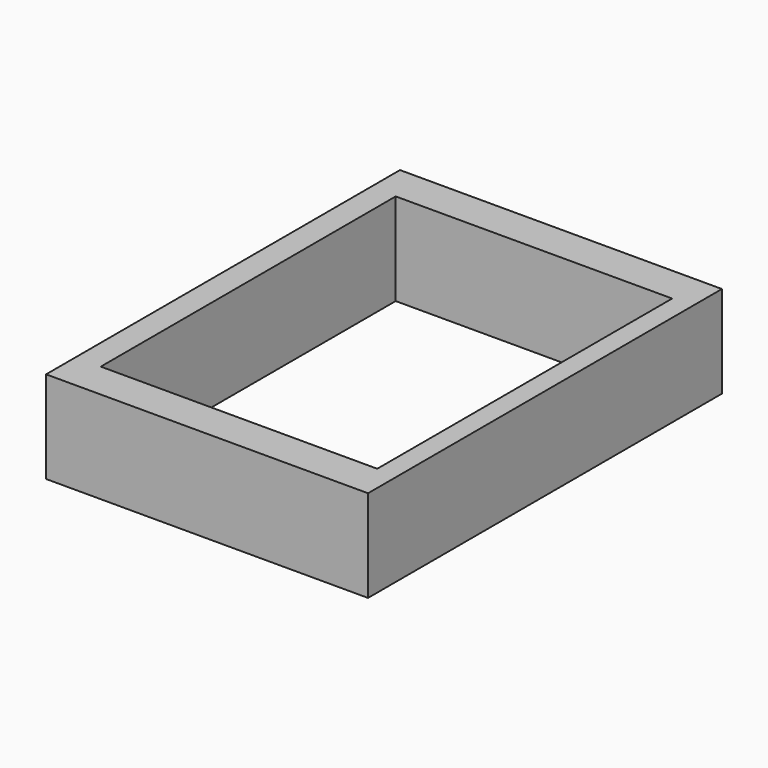
from build123d import *

# Parameters (mm, degrees)
F0_W     = 76.2
F0_H     = 10.16
F1_DEPTH = 25.4
F0_W_2   = 5.584522
F0_H_2   = 101.6
F2_DEPTH = 25.4


with BuildPart() as f1:
    # F0 (on Top) → F1 (new body)
    with BuildSketch(Plane.XY):
        with Locations((5.793286, 36.60981)):
            Rectangle(F0_W, F0_H)
    extrude(amount=F1_DEPTH)

    # F0 (on Top) → F2 (join)
    with BuildSketch(Plane.XY):
        Polygon((-32.306714, -70.07019), (-32.306714, 31.52981), (-32.306714, 41.68981), (-39.255086, 41.68981), (-39.255086, -70.07019), align=None)
        with Locations((46.685547, -19.27019)):
            Rectangle(F0_W_2, F0_H_2)
        with Locations((46.685547, 36.60981)):
            Rectangle(F0_W_2, F0_H)
        with Locations((46.685547, -75.15019)):
            Rectangle(F0_W_2, F0_H)
        Polygon((43.893286, -80.23019), (43.893286, -70.07019), (-32.306714, -70.07019), (-39.255086, -70.07019), (-39.255086, -80.23019), align=None)
    extrude(amount=F2_DEPTH)


solid = f1.part
